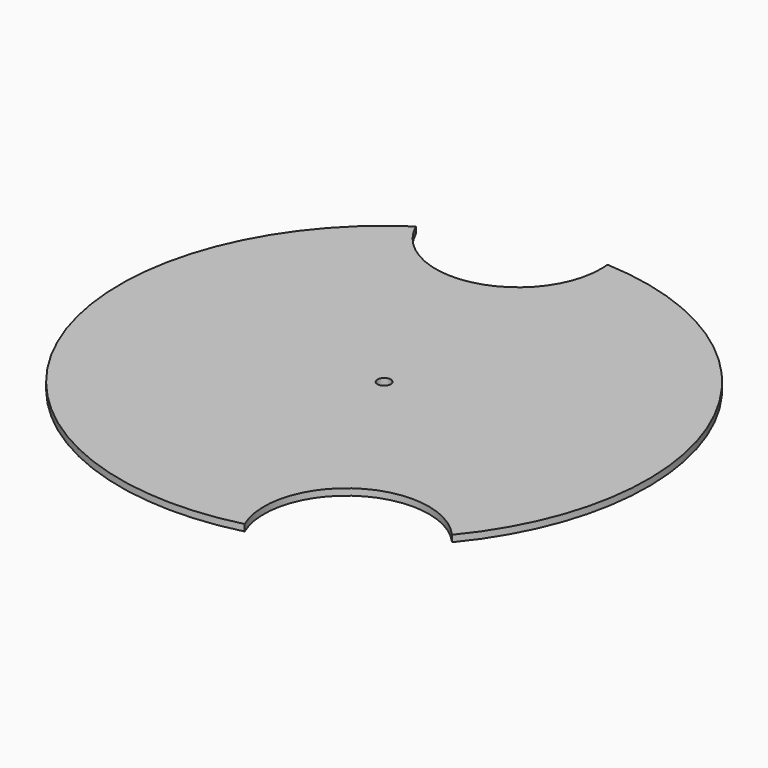
from build123d import *

# Parameters (mm, degrees)
F0_R     = 80
F1_DEPTH = 2
F2_R     = 25
F3_DEPTH = 25.4
F4_R     = 2
F5_DEPTH = 25.4
F7_DEPTH = 25.4


with BuildPart() as f1:
    # F0 (on Top) → F1 (new body)
    with BuildSketch(Plane.XY):
        Circle(F0_R)
    extrude(amount=F1_DEPTH)

    # F2 (on face) → F3 (cut)
    with BuildSketch(Plane.XY.offset(2)):
        with Locations((42.711879087, -67.6438865298)):
            Circle(F2_R)
    extrude(amount=-F3_DEPTH, mode=Mode.SUBTRACT)

    # F4 (on face) → F5 (cut)
    with BuildSketch(Plane.XY.offset(2)):
        Circle(F4_R)
    extrude(amount=-F5_DEPTH, mode=Mode.SUBTRACT)

    # F6 (on face) → F7 (cut)
    with BuildSketch(Plane.XY.offset(2)):
        with BuildLine():
            ThreePointArc((-43.8903481832, 66.8852549996), (-15.8440218297, 52.7258990739), (3.8976538135, 77.166644254))
            ThreePointArc((3.8976538135, 77.166644254), (3.8598196829, 78.5415170144), (3.7464318049, 79.9122284055))
            ThreePointArc((3.7464318049, 79.9122284055), (-21.1023461865, 77.166644254), (-43.8903481832, 66.8852549996))
        make_face()
        with BuildLine():
            ThreePointArc((-43.8903481832, 66.8852549996), (-21.1023461865, 77.166644254), (3.7464318049, 79.9122284055))
            ThreePointArc((3.7464318049, 79.9122284055), (-27.6968293698, 101.2812205834), (-43.8903481832, 66.8852549996))
        make_face()
    extrude(amount=-F7_DEPTH, mode=Mode.SUBTRACT)


solid = f1.part
